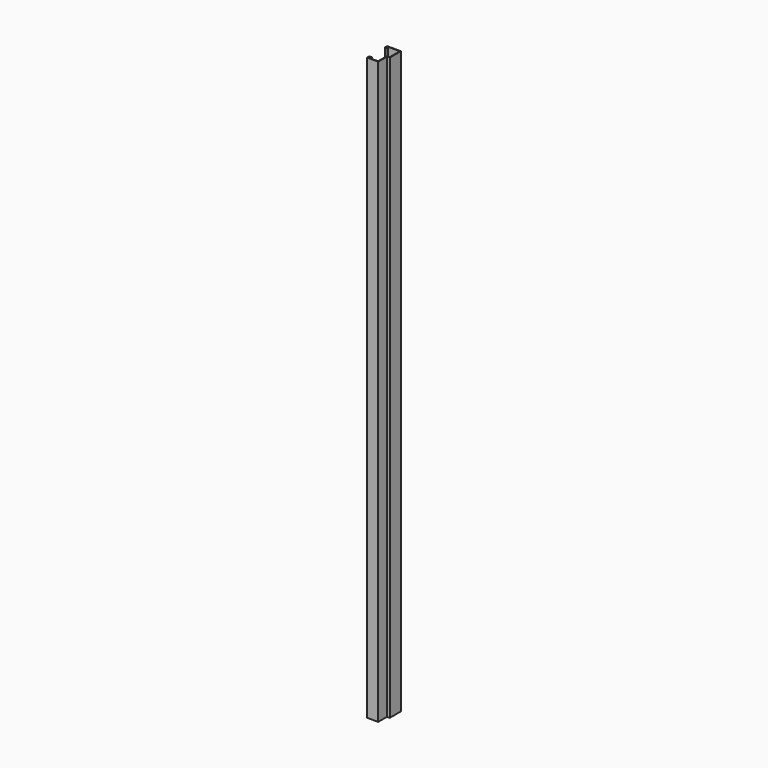
from build123d import *

# Parameters (mm, degrees)
F1_DEPTH = 2100


with BuildPart() as f1:
    # F0 (on Top) → F1 (new body)
    with BuildSketch(Plane.XY):
        Polygon((10, 0), (0, 0), (0, -10), (40, -10), (40, 30), (50, 30), (50, 80), (0, 80), (0, 70), (10, 70), (10, 72), (2, 72), (2, 78), (48, 78), (48, 32), (38, 32), (38, -8), (2, -8), (2, -2), (10, -2), align=None)
    extrude(amount=F1_DEPTH)


solid = f1.part
